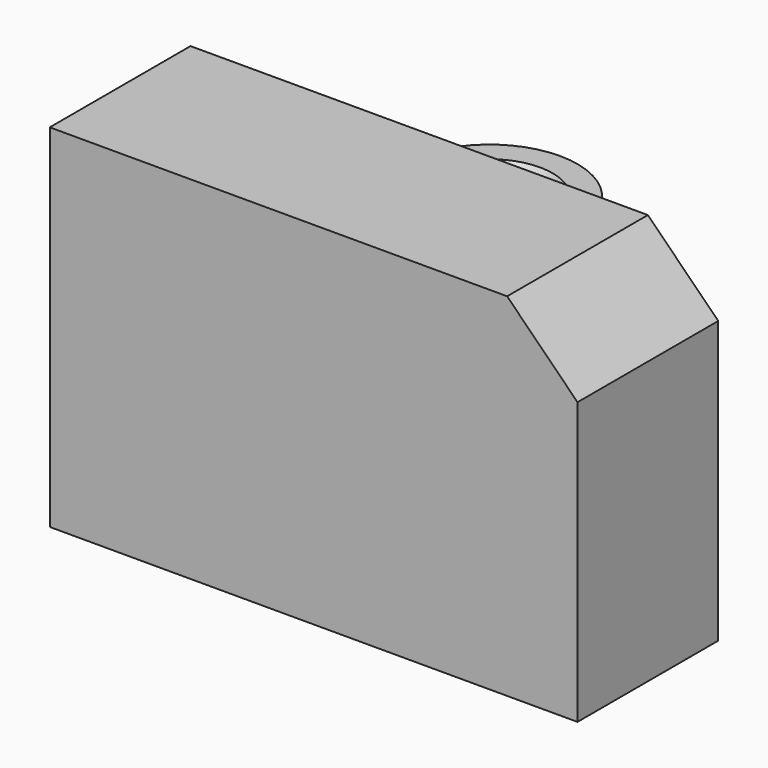
from build123d import *

# Parameters (mm, degrees)
F0_W           = 12.7
F0_H           = 19.05
F1_DEPTH       = 25.4
F2_DEPTH       = 15.24
F3_D           = 3.4544
F3_START       = 15.24
F3_CSINK_D     = 9.1186
F3_CSINK_ANGLE = 82
F4_R           = 5.08
F5_SIZE        = 5.08


with BuildPart() as f1:
    # F0 (on Top) → F1 (new body)
    with BuildSketch(Plane.XY):
        Polygon((-19.05, 6.35), (-19.05, -6.35), (19.05, -6.35), (19.05, 6.35), (-6.35, 6.35), align=None)
        with Locations((-12.7, 15.875)):
            Rectangle(F0_W, F0_H)
        with BuildLine():
            ThreePointArc((-6.35, 25.4), (-12.7, 31.75), (-19.05, 25.4))
            Line((-19.05, 25.4), (-6.35, 25.4))
        make_face()
    extrude(amount=-F1_DEPTH)

    # F0 (on Top) → F2 (cut)
    with BuildSketch(Plane.XY):
        with Locations((-12.7, 15.875)):
            Rectangle(F0_W, F0_H)
        with BuildLine():
            ThreePointArc((-6.35, 25.4), (-12.7, 31.75), (-19.05, 25.4))
            Line((-19.05, 25.4), (-6.35, 25.4))
        make_face()
    extrude(amount=-F2_DEPTH, mode=Mode.SUBTRACT)

    # F3 (through all)
    # its depths count from where the whole tool has entered the part; down to there all is cleared
    with Locations(Plane.XY.offset(-F3_START)):
        with Locations((-12.7, 25.4)):
            CounterSinkHole(F3_D / 2, F3_CSINK_D / 2, counter_sink_angle=F3_CSINK_ANGLE)

    # F4
    f4_edges = [f1.edges().sort_by_distance(p)[0] for p in [
        (-6.35, 6.35, -20.32),
    ]]
    fillet(f4_edges, radius=F4_R)

    # F5
    f5_edges = [f1.edges().sort_by_distance(p)[0] for p in [
        (19.05, 0, 0),
    ]]
    chamfer(f5_edges, length=F5_SIZE)


solid = f1.part
